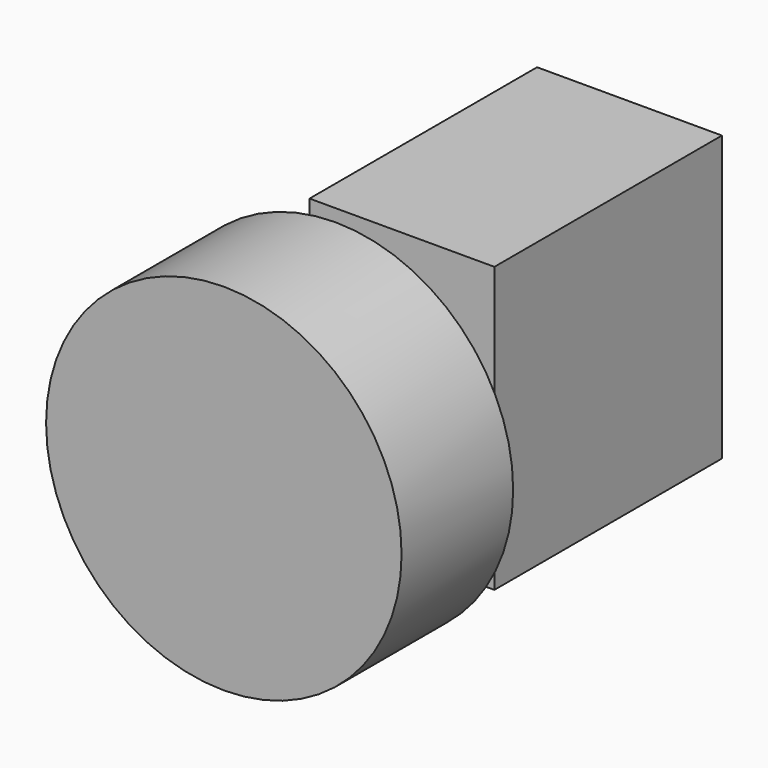
from build123d import *

# Parameters (mm, degrees)
F0_W     = 40
F0_H     = 40
F1_DEPTH = 26
F2_W     = 19.615385
F2_H     = 25


with BuildPart() as f1:
    # F0 (on Right) → F1 (new body)
    with BuildSketch(Plane.YZ):
        with Locations((20, 20)):
            Rectangle(F0_W, F0_H)
    extrude(amount=-F1_DEPTH)


with BuildPart() as f3:
    # F2 (on Right) → F3 (revolve)
    with BuildSketch(Plane.YZ):
        with Locations((-37.758961, 19.389205)):
            Rectangle(F2_W, F2_H)
    revolve(axis=Axis((0, -61.412809, 31.889205), (0, -1, 0)))


solid = Compound([f1.part, f3.part])
